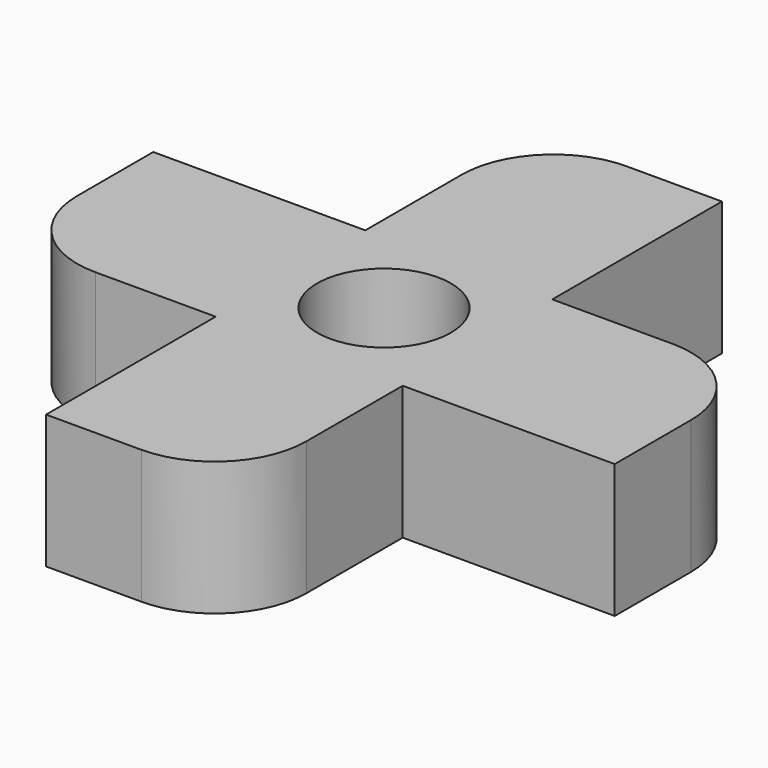
from build123d import *

# Parameters (mm, degrees)
F0_W     = 5.5922182249
F0_H     = 5.5922182249
F0_R     = 2
F1_DEPTH = 4


with BuildPart() as f1:
    # F0 (on Top) → F1 (new body)
    with BuildSketch(Plane.XY):
        with BuildLine():
            Line((-51.744280939, 30.471067643), (-58.0858875501, 30.471067643))
            Line((-58.0858875501, 30.471067643), (-58.0858875501, 27.6243700476))
            ThreePointArc((-58.0858875501, 27.6243700476), (-57.2817431756, 25.6829937927), (-55.3403669206, 24.8788494182))
            Line((-55.3403669206, 24.8788494182), (-51.744280939, 24.8788494182))
            Line((-51.744280939, 24.8788494182), (-51.744280939, 30.471067643))
        make_face()
        with BuildLine():
            Line((-51.744280939, 34.0671536247), (-51.744280939, 30.471067643))
            Line((-51.744280939, 30.471067643), (-46.1520627141, 30.471067643))
            Line((-46.1520627141, 30.471067643), (-46.1520627141, 36.8126742542))
            Line((-46.1520627141, 36.8126742542), (-48.9987603095, 36.8126742542))
            ThreePointArc((-48.9987603095, 36.8126742542), (-50.9401365645, 36.0085298797), (-51.744280939, 34.0671536247))
        make_face()
        with Locations((-48.9481718265, 27.6749585306)):
            Rectangle(F0_W, F0_H)
        with Locations((-48.9481718265, 27.6749585306)):
            Circle(F0_R, mode=Mode.SUBTRACT)
        with BuildLine():
            Line((-42.5559767324, 30.471067643), (-46.1520627141, 30.471067643))
            Line((-46.1520627141, 30.471067643), (-46.1520627141, 24.8788494182))
            Line((-46.1520627141, 24.8788494182), (-39.810456103, 24.8788494182))
            Line((-39.810456103, 24.8788494182), (-39.810456103, 27.7255470136))
            ThreePointArc((-39.810456103, 27.7255470136), (-40.6146004774, 29.6669232686), (-42.5559767324, 30.471067643))
        make_face()
        with BuildLine():
            Line((-46.1520627141, 24.8788494182), (-51.744280939, 24.8788494182))
            Line((-51.744280939, 24.8788494182), (-51.744280939, 18.537242807))
            Line((-51.744280939, 18.537242807), (-48.8975833436, 18.537242807))
            ThreePointArc((-48.8975833436, 18.537242807), (-46.9562070886, 19.3413871815), (-46.1520627141, 21.2827634365))
            Line((-46.1520627141, 21.2827634365), (-46.1520627141, 24.8788494182))
        make_face()
    extrude(amount=F1_DEPTH)


solid = f1.part
